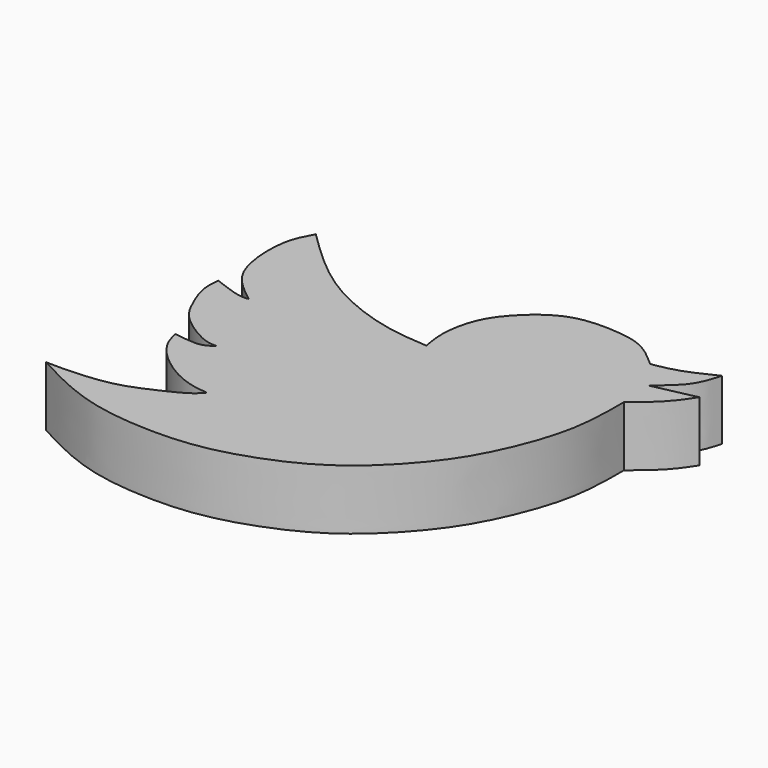
from build123d import *

# Parameters (mm, degrees)
F1_DEPTH = 12.7


with BuildPart() as f1:
    # F0 (on Top) → F1 (new body)
    with BuildSketch(Plane.XY):
        with BuildLine():
            add(Edge.make_bspline(
                [(-2.5400405284, -9.3696266413), (-5.574062808, -9.1756657984), (-12.5464373503, -8.729931549), (-28.3722352682, -2.7203895897), (-37.1483996842, 5.8834427328), (-41.6914783418, 10.3373117745)],
                knots=[0, 0, 0, 0, 0.2709157434, 0.622581464, 1, 1, 1, 1], degree=3))
            add(Edge.make_bspline(
                [(-41.6914783418, 10.3373117745), (-42.505518992, 8.8519259104), (-44.3172351616, 5.546074308), (-44.3405760189, -2.630190968), (-42.3364367387, -9.6083553479), (-38.0796874488, -12.9590444507), (-35.8833372593, -14.6878957748)],
                knots=[0, 0, 0, 0, 0.2169875415, 0.4829240867, 0.733204917, 1, 1, 1, 1], degree=3))
            add(Edge.make_bspline(
                [(-35.8833372593, -14.6878957748), (-36.4209003167, -14.7505164323), (-37.9610717162, -14.9299308178), (-41.5669938265, -13.5672252527), (-43.914347887, -12.6801421866)],
                knots=[0, 0, 0, 0, 0.3490280742, 1, 1, 1, 1], degree=3))
            add(Edge.make_bspline(
                [(-43.914347887, -12.6801421866), (-44.0333172296, -13.9145591826), (-44.2956677765, -16.6366888269), (-42.0313214627, -22.0824901941), (-39.6724335866, -26.6241111846), (-32.3654597084, -31.1506483346), (-30.3140863312, -31.1196448412), (-29.5732561499, -31.1084482819)],
                knots=[0, 0, 0, 0, 0.1766458999, 0.3895385774, 0.5987099093, 0.8550786444, 1, 1, 1, 1], degree=3))
            add(Edge.make_bspline(
                [(-29.5732561499, -31.1084482819), (-30.1826835518, -31.6072701259), (-31.7267279414, -32.871084433), (-35.3433853297, -32.3537582293), (-37.5325642526, -32.04061836)],
                knots=[0, 0, 0, 0, 0.3946955191, 1, 1, 1, 1], degree=3))
            add(Edge.make_bspline(
                [(-37.5325642526, -32.04061836), (-37.2516917762, -33.1724259001), (-36.6272536628, -35.6886701902), (-33.1273184662, -39.9120568836), (-27.5675452972, -43.5922454596), (-23.2004085524, -44.889523073), (-21.1904490764, -45.0592721187), (-20.3042402864, -45.1341159642)],
                knots=[0, 0, 0, 0, 0.17891935, 0.397775043, 0.6428578574, 0.8425328919, 1, 1, 1, 1], degree=3))
            add(Edge.make_bspline(
                [(-20.3042402864, -45.1341159642), (-20.8005322609, -45.7069081666), (-22.0766979982, -47.1797866753), (-27.9503744406, -49.9387342726), (-34.1397326871, -52.6431227866), (-42.6370789391, -53.3508439959), (-46.2828937244, -53.270452701), (-47.8899441659, -53.2350167632)],
                knots=[0, 0, 0, 0, 0.1333211239, 0.3428220867, 0.5665886871, 0.8089552315, 1, 1, 1, 1], degree=3))
            add(Edge.make_bspline(
                [(-47.8899441659, -53.2350167632), (-45.0076380537, -54.7673817167), (-39.0969506784, -57.9097718141), (-28.8992245595, -61.3047121203), (-12.9243333585, -62.0335336195), (-0.5066017082, -59.0615703947), (13.3722952505, -52.8458294122), (24.6620206509, -41.0391411385), (30.4000291933, -31.4190219715), (35.570499751, -17.7214887308), (35.568539307, -9.0318489994), (35.5675816536, -4.7870641574)],
                knots=[0, 0, 0, 0, 0.0959898421, 0.1968444453, 0.318427089, 0.4286411515, 0.5477197651, 0.670401695, 0.7738448081, 0.8895258998, 1, 1, 1, 1], degree=3))
            add(Edge.make_bspline(
                [(35.5675816536, -4.7870641574), (37.501435872, -3.2126810796), (41.1197562506, -0.2669459149), (43.2147396042, 2.90254224), (44.1900342703, 4.3780598789)],
                knots=[0, 0, 0, 0, 0.5344618541, 1, 1, 1, 1], degree=3))
            add(Edge.make_bspline(
                [(44.1900342703, 4.3780598789), (41.1148940523, 3.7147942154), (38.0397538344, 3.0515285519), (34.9646136165, 2.3882628884)],
                knots=[0, 0, 0, 0, 9.4375673933, 9.4375673933, 9.4375673933, 9.4375673933], degree=3))
            add(Edge.make_bspline(
                [(34.9646136165, 2.3882628884), (36.9355416489, 3.9732699567), (40.6643638492, 6.9719636922), (41.7901150409, 10.8641288561), (42.3208326101, 12.6990284771)],
                knots=[0, 0, 0, 0, 0.5285658384, 1, 1, 1, 1], degree=3))
            add(Edge.make_bspline(
                [(42.3208326101, 12.6990284771), (40.0081810483, 11.5698187206), (35.7434868157, 9.487475485), (32.1068958505, 8.8778702702), (30.4423496127, 8.5988407955)],
                knots=[0, 0, 0, 0, 0.5422783993, 1, 1, 1, 1], degree=3))
            add(Edge.make_bspline(
                [(30.4423496127, 8.5988407955), (28.6578834713, 10.173390721), (25.1595808445, 13.260169457), (18.7846910448, 14.3576465233), (9.3456835983, 14.4364556123), (2.243179723, 8.8227373677), (-1.9476085861, 3.405573131), (-3.4859673156, -3.9891009385), (-2.8396199959, -7.6655888164), (-2.5400405284, -9.3696266413)],
                knots=[0, 0, 0, 0, 0.1397665212, 0.2740010454, 0.435394402, 0.5928758772, 0.7324116724, 0.8759738515, 1, 1, 1, 1], degree=3))
        make_face()
    extrude(amount=F1_DEPTH)


solid = f1.part
